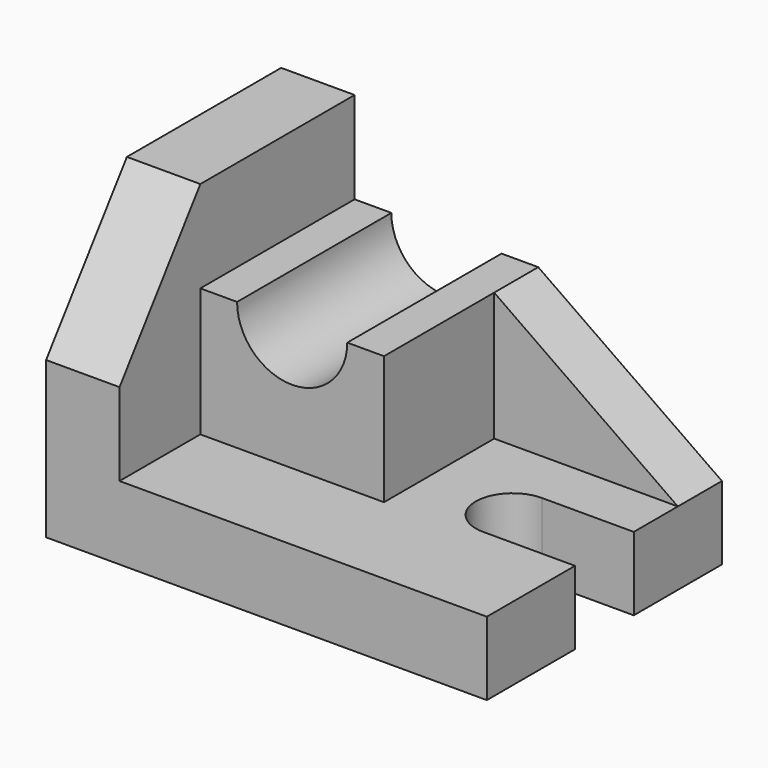
from build123d import *

# Parameters (mm, degrees)
F1_DEPTH  = 1625.6
F3_DEPTH  = 406.401
F5_W      = 1066.8
F5_H      = 711.2
F6_DEPTH  = 1016
F8_DEPTH  = 1625.601
F10_DEPTH = 304.8
F12_DEPTH = 406.401


with BuildPart() as f1:
    # F0 (on Front) → F1 (new body)
    with BuildSketch(Plane.XZ):
        Polygon((0, 1625.6), (0, 0), (2438.4, 0), (2438.4, 406.4), (406.4, 406.4), (406.4, 1625.6), align=None)
    extrude(amount=F1_DEPTH)

    # F2 (on face) → F3 (cut, through all)
    with BuildSketch(Plane.XY.offset(406.4)):
        with BuildLine():
            Line((2438.4, -1016), (2438.4, -609.6))
            Line((2438.4, -609.6), (1930.4, -609.6))
            ThreePointArc((1930.4, -609.6), (1727.2, -812.8), (1930.4, -1016))
            Line((1930.4, -1016), (2438.4, -1016))
        make_face()
    extrude(amount=-F3_DEPTH, mode=Mode.SUBTRACT)

    # F5 (on face) → F6 (join)
    with BuildSketch(Plane.YZ.offset(406.4)):
        with Locations((-533.4, 762)):
            Rectangle(F5_W, F5_H)
    extrude(amount=F6_DEPTH)

    # F7 (on face) → F8 (cut, through all)
    with BuildSketch(Plane(origin=(0, 0, 0), x_dir=(-1, 0, 0), z_dir=(0, 1, 0))):
        with BuildLine():
            Line((-914.4, 1117.6), (-1219.2, 1117.6))
            ThreePointArc((-1219.2, 1117.6), (-914.4, 812.8), (-609.6, 1117.6))
            Line((-609.6, 1117.6), (-914.4, 1117.6))
        make_face()
    extrude(amount=-F8_DEPTH, mode=Mode.SUBTRACT)

    # F9 (on face) → F10 (join)
    with BuildSketch(Plane(origin=(0, 0, 0), x_dir=(-1, 0, 0), z_dir=(0, 1, 0))):
        Polygon((-1422.4, 406.4), (-1422.4, 1117.6), (-2438.4, 406.4), align=None)
    extrude(amount=-F10_DEPTH)

    # F11 (on face) → F12 (cut, through all)
    with BuildSketch(Plane.YZ.offset(406.4)):
        Polygon((-1625.6, 1625.6), (-1625.6, 863.6), (-1066.8, 1625.6), align=None)
    extrude(amount=-F12_DEPTH, mode=Mode.SUBTRACT)


solid = f1.part
